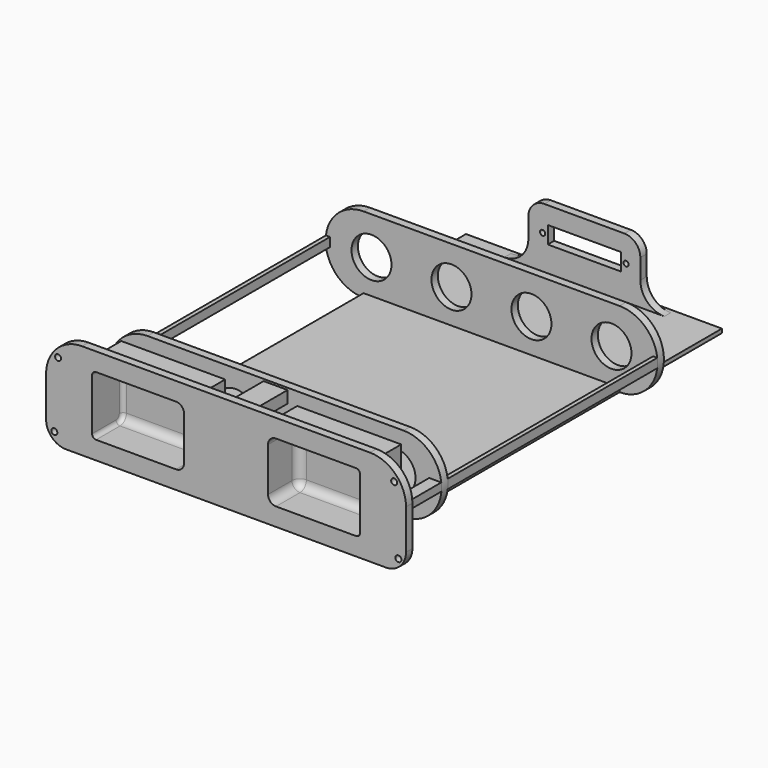
from build123d import *

# Parameters (mm, degrees)
SKETCH138_R     = 5
PAD002_DEPTH    = 2
SKETCH139_W     = 64
SKETCH139_H     = 1
SKETCH139_W_2   = 1.03067
SKETCH139_H_2   = 2.2409
SKETCH139_W_3   = 1.02889
SKETCH139_H_3   = 2.288
PAD003_DEPTH    = 65.5
SKETCH140_R     = 5
PAD004_DEPTH    = 2
SKETCH141_W     = 64
SKETCH141_H     = 1
PAD005_DEPTH    = 30
SKETCH144_W     = 28
SKETCH144_H     = 2
PAD007_DEPTH    = 15
SKETCH146_W     = 18.3
SKETCH146_H     = 4.3
POCKET028_DEPTH = 2
FILLET005_R     = 4
FILLET006_R     = 6
SKETCH147_R     = 0.65
POCKET029_DEPTH = 2
SKETCH149_W     = 3.03
SKETCH149_H     = 2.00511
SKETCH149_W_2   = 6
SKETCH149_H_2   = 3
SKETCH149_W_3   = 3.03002
SKETCH149_H_3   = 2.04501
PAD008_DEPTH    = 13.5
SKETCH150_W     = 90
SKETCH150_H     = 24
PAD009_DEPTH    = 2
FILLET007_R     = 9
FILLET008_R     = 5
SKETCH161_W     = 26
SKETCH161_H     = 18
PAD014_DEPTH    = 9
SKETCH162_W     = 23
SKETCH162_H     = 14.90769
SKETCH162_W_2   = 22.99998
SKETCH162_H_2   = 14.95065
POCKET035_DEPTH = 9.5
FILLET014_R     = 2
FILLET015_R     = 2
FILLET016_R     = 1
SKETCH163_R     = 0.75
POCKET036_DEPTH = 2


with BuildPart() as part:
    # Sketch138 → Pad002 (new body)
    with BuildSketch(Plane.XZ):
        with BuildLine():
            ThreePointArc((413.000007, 21.499985), (403.500007, 11.999985), (413.000007, 2.499985))
            Line((477.000007, 2.499985), (413.000007, 2.499985))
            ThreePointArc((477.000007, 2.499985), (486.500006, 11.999985), (477.000007, 21.499985))
            Line((413.000007, 21.499985), (477.000007, 21.499985))
        make_face()
        with Locations((414.971964, 12)):
            Circle(SKETCH138_R, mode=Mode.SUBTRACT)
        with Locations((434.971964, 12)):
            Circle(SKETCH138_R, mode=Mode.SUBTRACT)
        with Locations((454.971964, 12)):
            Circle(SKETCH138_R, mode=Mode.SUBTRACT)
        with Locations((474.982974, 12)):
            Circle(SKETCH138_R, mode=Mode.SUBTRACT)
    extrude(amount=PAD002_DEPTH)

    # Sketch139 (on Face10 of Pad002) → Pad003 (join)
    with BuildSketch(Plane.XZ.offset(2)):
        with Locations((445.000007, 3)):
            Rectangle(SKETCH139_W, SKETCH139_H)
        with Locations((404.084671, 12.02045)):
            Rectangle(SKETCH139_W_2, SKETCH139_H_2)
        with Locations((485.914449, 11.999413)):
            Rectangle(SKETCH139_W_3, SKETCH139_H_3)
    extrude(amount=PAD003_DEPTH)

    # Sketch140 (on Face24 of Pad003) → Pad004 (join)
    with BuildSketch(Plane.XZ.offset(67.5)):
        with BuildLine():
            ThreePointArc((413.000007, 21.499985), (403.500007, 11.999985), (413.000007, 2.499985))
            Line((477.000007, 2.499985), (413.000007, 2.499985))
            ThreePointArc((477.000007, 2.499985), (486.500006, 11.999985), (477.000007, 21.499985))
            Line((413.000007, 21.499985), (477.000007, 21.499985))
        make_face()
        with Locations((414.971964, 12)):
            Circle(SKETCH140_R, mode=Mode.SUBTRACT)
        with Locations((434.971964, 12)):
            Circle(SKETCH140_R, mode=Mode.SUBTRACT)
        with Locations((454.971964, 12)):
            Circle(SKETCH140_R, mode=Mode.SUBTRACT)
        with Locations((474.982974, 12)):
            Circle(SKETCH140_R, mode=Mode.SUBTRACT)
    extrude(amount=PAD004_DEPTH)

    # Sketch141 (on Face32 of Pad004) → Pad005 (join)
    with BuildSketch(Plane(origin=(0, 0, 0), x_dir=(1, 0, 0), z_dir=(0, 1, 0))):
        with Locations((445, -3.005366)):
            Rectangle(SKETCH141_W, SKETCH141_H)
    extrude(amount=PAD005_DEPTH)

    # Sketch144 (on Face35 of Pad005) → Pad007 (join)
    with BuildSketch(Plane(origin=(0, 0, 3.505366), x_dir=(-1, 0, 0), z_dir=(0, 0, 1))):
        with Locations((-445, -28)):
            Rectangle(SKETCH144_W, SKETCH144_H)
    extrude(amount=PAD007_DEPTH)

    # Sketch146 (on Face41 of Pad007) → Pocket028 (cut)
    with BuildSketch(Plane(origin=(0, 29, 0), x_dir=(1, 0, 0), z_dir=(0, 1, 0))):
        with Locations((444.99999, -12)):
            Rectangle(SKETCH146_W, SKETCH146_H)
    extrude(amount=-POCKET028_DEPTH, mode=Mode.SUBTRACT)

    # Fillet005
    fillet005_edges = [part.edges().sort_by_distance(p)[0] for p in [
        (431, 28, 18.505366),
        (459, 28, 18.505366),
    ]]
    fillet(fillet005_edges, radius=FILLET005_R)

    # Fillet006
    fillet006_edges = [part.edges().sort_by_distance(p)[0] for p in [
        (431, 28, 3.505366),
        (459, 28, 3.505366),
    ]]
    fillet(fillet006_edges, radius=FILLET006_R)

    # Sketch147 (on Face5 of Fillet006) → Pocket029 (cut)
    with BuildSketch(Plane(origin=(0, 29, 0), x_dir=(1, 0, 0), z_dir=(0, 1, 0))):
        with Locations((434.559988, -12)):
            Circle(SKETCH147_R)
        with Locations((455.43999, -12)):
            Circle(SKETCH147_R)
    extrude(amount=-POCKET029_DEPTH, mode=Mode.SUBTRACT)

    # Sketch149 (on Face52 of Pocket029) → Pad008 (join)
    with BuildSketch(Plane.XZ.offset(69.5)):
        with Locations((484.914989, 12.142557)):
            Rectangle(SKETCH149_W, SKETCH149_H)
        with Locations((445, 4.5)):
            Rectangle(SKETCH149_W_2, SKETCH149_H_2)
        with Locations((405.084996, 12.122505)):
            Rectangle(SKETCH149_W_3, SKETCH149_H_3)
        with Locations((445.000007, 19.5)):
            Rectangle(SKETCH149_W_2, SKETCH149_H_2)
    extrude(amount=PAD008_DEPTH)

    # Sketch150 (on Face70 of Pad008) → Pad009 (join)
    with BuildSketch(Plane.XZ.offset(83)):
        with Locations((444.999989, 12.25)):
            Rectangle(SKETCH150_W, SKETCH150_H)
    extrude(amount=PAD009_DEPTH)

    # Fillet007
    fillet007_edges = [part.edges().sort_by_distance(p)[0] for p in [
        (489.999989, -84, 24.25),
        (399.999989, -84, 24.25),
    ]]
    fillet(fillet007_edges, radius=FILLET007_R)

    # Fillet008
    fillet008_edges = [part.edges().sort_by_distance(p)[0] for p in [
        (489.999989, -84, 0.25),
        (399.999989, -84, 0.25),
    ]]
    fillet(fillet008_edges, radius=FILLET008_R)

    # Sketch161 (on Face1 of Fillet008) → Pad014 (join)
    with BuildSketch(Plane(origin=(0, -83, 0), x_dir=(1, 0, 0), z_dir=(0, 1, 0))):
        with Locations((467, -12.257592)):
            Rectangle(SKETCH161_W, SKETCH161_H)
        with Locations((422.99999, -12.250199)):
            Rectangle(SKETCH161_W, SKETCH161_H)
    extrude(amount=PAD014_DEPTH)

    # Sketch162 (on Face34 of Pad014) → Pocket035 (cut)
    with BuildSketch(Plane.XZ.offset(85)):
        with Locations((423.000006, 12.246182)):
            Rectangle(SKETCH162_W, SKETCH162_H)
        with Locations((466.999997, 12.225325)):
            Rectangle(SKETCH162_W_2, SKETCH162_H_2)
    extrude(amount=-POCKET035_DEPTH, mode=Mode.SUBTRACT)

    # Fillet014
    fillet014_edges = [part.edges().sort_by_distance(p)[0] for p in [
        (434.500006, -75.5, 12.246182),
        (455.500007, -75.5, 12.225325),
    ]]
    fillet(fillet014_edges, radius=FILLET014_R)

    # Fillet015
    fillet015_edges = [part.edges().sort_by_distance(p)[0] for p in [
        (455.500007, -81.25, 4.75),
        (434.500006, -81.25, 4.792337),
        (434.500006, -81.25, 19.700027),
        (455.500007, -81.25, 19.70065),
    ]]
    fillet(fillet015_edges, radius=FILLET015_R)

    # Fillet016
    fillet016_edges = [part.edges().sort_by_distance(p)[0] for p in [
        (411.500006, -81.25, 4.792337),
        (411.500006, -75.5, 12.246182),
        (411.500006, -81.25, 19.700027),
        (411.500006, -76.085786, 19.114241),
        (411.500006, -76.085786, 5.378123),
        (478.499987, -81.25, 4.75),
        (478.499987, -76.085786, 5.335786),
        (478.499987, -75.5, 12.225325),
        (478.499987, -76.085786, 19.114864),
        (478.499987, -81.25, 19.70065),
    ]]
    fillet(fillet016_edges, radius=FILLET016_R)

    # Sketch163 (on Face2 of Fillet016) → Pocket036 (cut)
    with BuildSketch(Plane.XZ.offset(85)):
        with Locations((403.000006, 19.8)):
            Circle(SKETCH163_R)
        with Locations((487.03999, 19.8)):
            Circle(SKETCH163_R)
        with Locations((402.069775, 3.2)):
            Circle(SKETCH163_R)
        with Locations((488.100007, 3.2)):
            Circle(SKETCH163_R)
    extrude(amount=-POCKET036_DEPTH, mode=Mode.SUBTRACT)


with BuildPart() as part_1:
    # Body015 placement: moved
    add(part.part.moved(Location((0, 182, 0))))


solid = part_1.part
